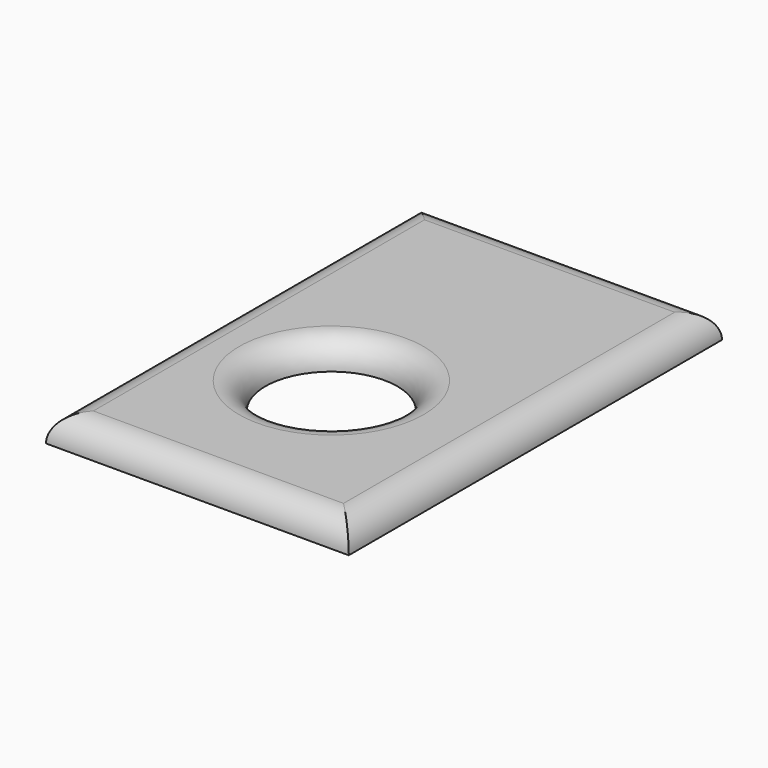
from build123d import *

# Parameters (mm, degrees)
F1_W     = 58.6021319032
F1_H     = 90.3074070811
F1_R     = 12.7907373574
F2_DEPTH = 5.129724741
F3_R     = 5.08


with BuildPart() as f2:
    # F1 (on face) → F2 (new body)
    with BuildSketch(Plane.XY):
        with Locations((29.3010659516, 9.8255686462)):
            Rectangle(F1_W, F1_H)
        with Locations((26.9702449441, 0)):
            Circle(F1_R, mode=Mode.SUBTRACT)
    extrude(amount=F2_DEPTH)

    # F3
    f3_edges = [f2.edges().sort_by_distance(p)[0] for p in [
        (58.602132, 9.825569, 5.129725),
        (29.301066, 54.979272, 5.129725),
        (0, 9.825569, 5.129725),
        (29.301066, -35.328135, 5.129725),
        (14.179508, 0, 5.129725),
    ]]
    fillet(f3_edges, radius=F3_R)


solid = f2.part
